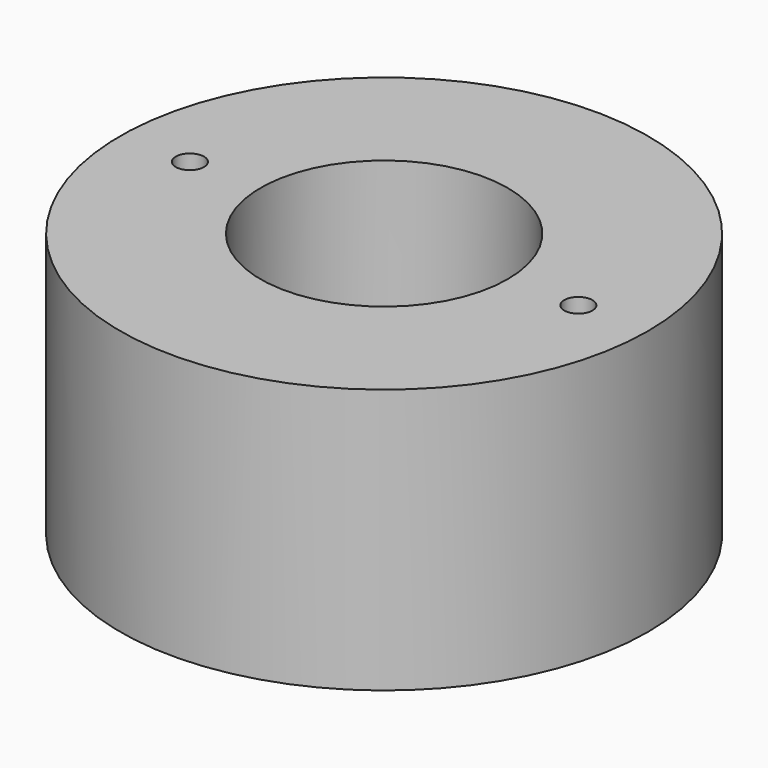
from build123d import *

# Parameters (mm, degrees)
F0_R     = 14.95
F1_DEPTH = 15
F2_R     = 7
F3_DEPTH = 15
F4_R     = 0.8
F5_DEPTH = 15


with BuildPart() as f1:
    # F0 (on Top) → F1 (new body)
    with BuildSketch(Plane.XY):
        Circle(F0_R)
    extrude(amount=F1_DEPTH)

    # F2 (on Top) → F3 (cut)
    with BuildSketch(Plane.XY):
        Circle(F2_R)
    extrude(amount=F3_DEPTH, mode=Mode.SUBTRACT)

    # F4 (on Top) → F5 (cut)
    with BuildSketch(Plane.XY):
        with Locations((-11, 0)):
            Circle(F4_R)
        with Locations((11, 0)):
            Circle(F4_R)
    extrude(amount=F5_DEPTH, mode=Mode.SUBTRACT)


solid = f1.part
